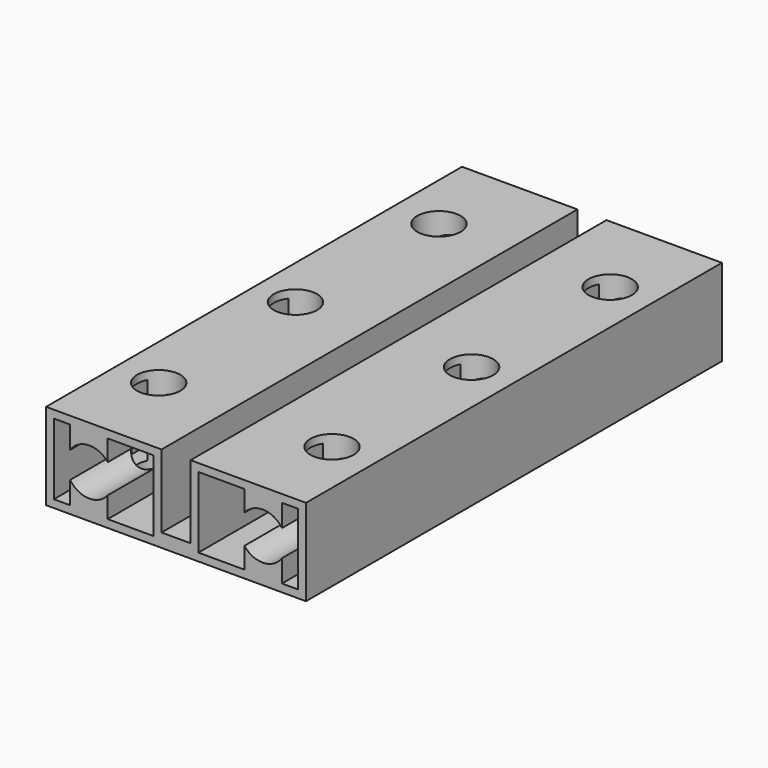
from build123d import *

# Parameters (mm, degrees)
F1_DEPTH = 48
F2_R     = 2
F3_DEPTH = 8.1


with BuildPart() as f1:
    # F0 (on Front) → F1 (new body)
    with BuildSketch(Plane.XZ):
        Polygon((-1.34, 4), (-12, 4), (-12, -4), (12, -4), (12, 4), (1.34, 4), (1.34, -2.75), (-1.34, -2.75), align=None)
        Polygon((-6.31, 3.28), (-2.06, 3.28), (-2.06, -3.28), (-6.31, -3.28), (-9.78, -3.28), (-11.28, -3.28), (-11.28, 3.28), (-9.78, 3.28), align=None, mode=Mode.SUBTRACT)
        Polygon((11.28, 3.28), (11.28, -3.28), (9.78, -3.28), (6.31, -3.28), (2.06, -3.28), (2.06, 3.28), (6.31, 3.28), (9.78, 3.28), align=None, mode=Mode.SUBTRACT)
        with BuildLine():
            Line((-6.31, 1.345177), (-6.31, 3.28))
            Line((-6.31, 3.28), (-9.78, 3.28))
            Line((-9.78, 3.28), (-9.78, 1.223601))
            ThreePointArc((-9.78, 1.223601), (-8.075632, 2.158675), (-6.31, 1.345177))
        make_face()
        with BuildLine():
            Line((-9.78, -3.28), (-6.31, -3.28))
            Line((-6.31, -3.28), (-6.31, -1.345177))
            ThreePointArc((-6.31, -1.345177), (-8.075632, -2.158675), (-9.78, -1.223601))
            Line((-9.78, -1.223601), (-9.78, -3.28))
        make_face()
        with BuildLine():
            Line((9.78, 1.223601), (9.78, 3.28))
            Line((9.78, 3.28), (6.31, 3.28))
            Line((6.31, 3.28), (6.31, 1.345177))
            ThreePointArc((6.31, 1.345177), (8.075632, 2.158675), (9.78, 1.223601))
        make_face()
        with BuildLine():
            Line((6.31, -3.28), (9.78, -3.28))
            Line((9.78, -3.28), (9.78, -1.223601))
            ThreePointArc((9.78, -1.223601), (8.075632, -2.158675), (6.31, -1.345177))
            Line((6.31, -1.345177), (6.31, -3.28))
        make_face()
    extrude(amount=F1_DEPTH)

    # F2 (on face) → F3 (cut)
    with BuildSketch(Plane.XY.offset(4)):
        with Locations((-8, -40)):
            Circle(F2_R)
        with Locations((8, -40)):
            Circle(F2_R)
        with Locations((-8.176223, -24)):
            Circle(F2_R)
        with Locations((8.085492, -24)):
            Circle(F2_R)
        with Locations((-7.726881, -8)):
            Circle(F2_R)
        with Locations((8.085492, -8)):
            Circle(F2_R)
    extrude(amount=-F3_DEPTH, mode=Mode.SUBTRACT)


solid = f1.part
